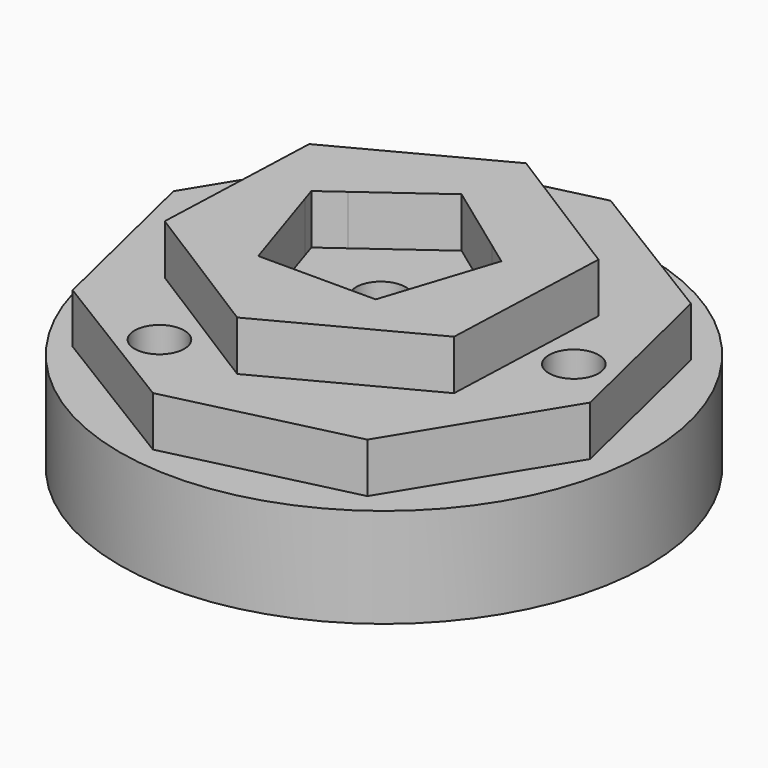
from build123d import *

# Parameters (mm, degrees)
F0_R       = 33.7251473282
F5_DEPTH   = 12.7
F6_DEPTH   = 25.4
F7_DEPTH   = 19.05
F8_D       = 6.35
F8_ON_F4_D = 6.35


with BuildPart() as f5:
    # F0 (on Top) → F5 (new body)
    with BuildSketch(Plane.XY):
        with Locations((-39.3072403967, -35.1206697524)):
            Circle(F0_R)
    extrude(amount=F5_DEPTH)

    # F1 (on face) → F6 (join)
    with BuildSketch(Plane.XY):
        Polygon((-20.2098016627, -24.7553280585), (-38.8420633972, -13.0248842761), (-30.4153332648, -29.0032569477), (-27.5516730192, -31.0838279019), (-28.2250702608, -33.1563315064), (-21.0525331088, -46.7565619417), align=None)
        Polygon((-30.4153332648, -29.0032569477), (-38.8420633972, -13.0248842761), (-48.8573559288, -28.9328546186), (-39.6847948432, -22.2685988992), align=None)
        Polygon((-48.8573559288, -28.9328546186), (-38.8420633972, -13.0248842761), (-58.3170565776, -23.2956743769), (-59.1597880237, -45.2969082601), (-51.2710974395, -32.7667644367), (-51.8179166672, -31.0838279019), align=None)
        Polygon((-21.0525331088, -46.7565619417), (-28.2250702608, -33.1563315064), (-32.1861131663, -45.3471680467), (-47.1834765201, -45.3471680467), (-51.2710974395, -32.7667644367), (-59.1597880237, -45.2969082601), align=None)
        Polygon((-40.5275262892, -57.0273520425), (-21.0525331088, -46.7565619417), (-59.1597880237, -45.2969082601), align=None)
    extrude(amount=F6_DEPTH)

    # F2 (on Top) → F7 (join)
    with BuildSketch(Plane.XY):
        Polygon((-14.6972839647, -16.8937072017), (-34.8278614766, -4.542624592), (-57.7958636127, -10.0435581916), (-70.1469462224, -30.1741357035), (-64.6460126228, -53.1421378396), (-44.5154351109, -65.4932204493), (-21.5474329747, -59.9922868497), (-9.1963503651, -39.8617093378), align=None)
    extrude(amount=F7_DEPTH)

    # F8 (through all)
    with Locations(Plane(origin=(0, 0, 0), x_dir=(1, 0, 0), z_dir=(0, 0, -1))):
        with Locations((-39.8223698139, 34.9703021348)):
            Hole(F8_D / 2)

    # F8 on F4 (through all)
    with Locations(Plane(origin=(0, 0, 0), x_dir=(1, 0, 0), z_dir=(0, 0, -1))):
        with Locations((-52.2050820291, 14.4365634769), (-51.214001947, 56.08092756), (-15.6444647677, 34.4004449901)):
            Hole(F8_ON_F4_D / 2)


solid = f5.part
